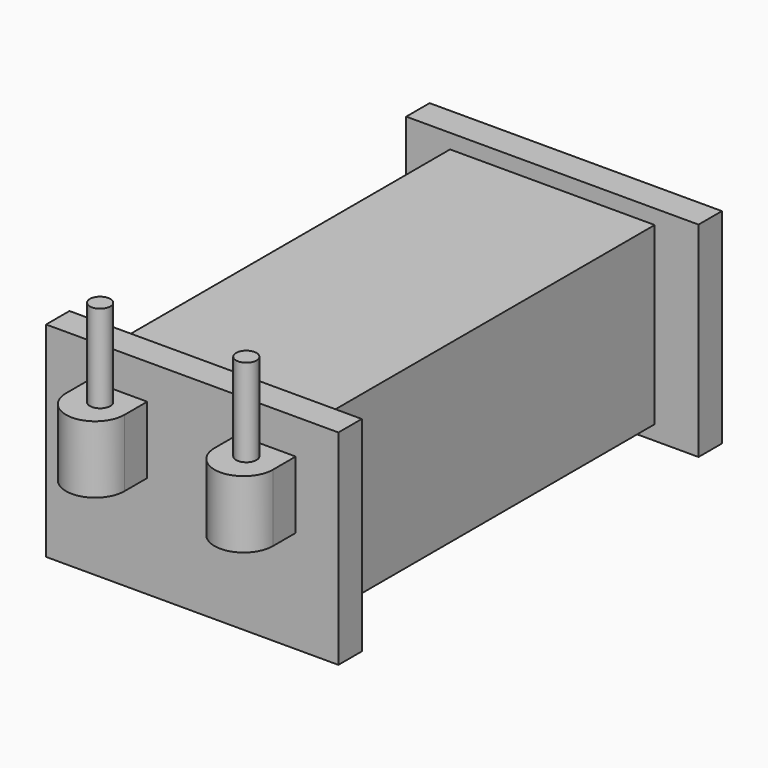
from build123d import *

# Parameters (mm, degrees)
SKETCH230_W  = 7
SKETCH230_H  = 14.4
PAD157_DEPTH = 3
SKETCH238_W  = 10
SKETCH238_H  = 7
PAD158_DEPTH = 1
SKETCH231_W  = 10
SKETCH231_H  = 7
PAD162_DEPTH = 1
PAD169_DEPTH = 2.3
SKETCH234_R  = 0.35
PAD165_DEPTH = 3


with BuildPart() as part:
    # Sketch230 → Pad157 (new body, symmetric)
    with BuildSketch(Plane.XY):
        with Locations((0, -0.37169)):
            Rectangle(SKETCH230_W, SKETCH230_H)
    extrude(amount=PAD157_DEPTH, both=True)

    # Sketch238 (on Face3 of Pad157) → Pad158 (join)
    with BuildSketch(Plane.XZ.offset(7.57169)):
        Rectangle(SKETCH238_W, SKETCH238_H)
    extrude(amount=PAD158_DEPTH)

    # Sketch231 (on Face11 of Pad158) → Pad162 (join)
    with BuildSketch(Plane(origin=(0, 6.82831, 0), x_dir=(-1, 0, 0), z_dir=(0, 1, 0))):
        Rectangle(SKETCH231_W, SKETCH231_H)
    extrude(amount=PAD162_DEPTH)

    # Sketch239 → Pad169 (join)
    with BuildSketch(Plane.XY):
        with BuildLine():
            ThreePointArc((-3.539731, -9.545275), (-2.539731, -10.545275), (-1.539731, -9.545275))
            Line((-1.539731, -8.57169), (-1.539731, -9.545275))
            Line((-3.539731, -8.57169), (-1.539731, -8.57169))
            Line((-3.539731, -8.57169), (-3.539731, -9.545275))
        make_face()
        with BuildLine():
            ThreePointArc((1.539731, -9.545275), (2.539731, -10.545275), (3.539731, -9.545275))
            Line((3.539731, -8.57169), (3.539731, -9.545275))
            Line((3.539731, -8.57169), (1.539731, -8.57169))
            Line((1.539731, -8.57169), (1.539731, -9.545275))
        make_face()
    extrude(amount=PAD169_DEPTH)

    # Sketch234 (on Face19 of Pad169) → Pad165 (join)
    with BuildSketch(Plane.XY.offset(2.3)):
        with Locations((-2.5, -9.384607)):
            Circle(SKETCH234_R)
        with Locations((2.5, -9.384607)):
            Circle(SKETCH234_R)
    extrude(amount=PAD165_DEPTH)


with BuildPart() as part_1:
    # Body042 placement: moved
    add(part.part.moved(Location((3.5, -13, 0))))


solid = part_1.part
